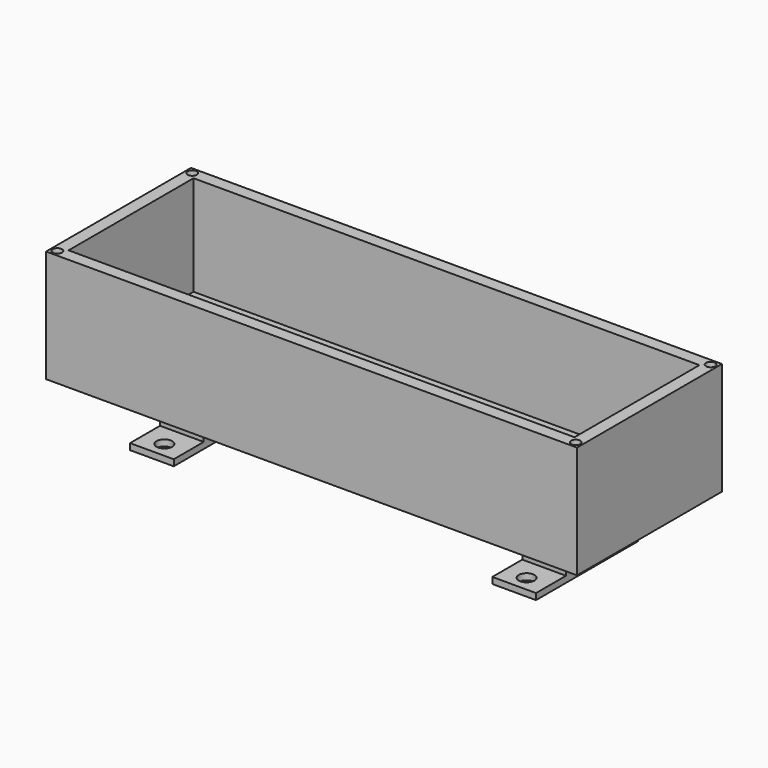
from build123d import *

# Parameters (mm, degrees)
F0_W      = 215.9
F0_H      = 73.66
F0_W_2    = 205.74
F0_H_2    = 63.5
F1_DEPTH  = 5.08
F2_DEPTH  = 40.64
F3_R      = 1.64465
F4_DEPTH  = 5.081
F5_R      = 1.905
F6_DEPTH  = 12.7
F7_W      = 17.78
F7_H      = 21.336
F8_DEPTH  = 19.05
F9_W      = 17.78
F9_H      = 15.24
F9_H_2    = 21.336
F9_H_3    = 51.816
F10_DEPTH = 2.54
F11_R     = 3.175
F12_DEPTH = 2.54


with BuildPart() as f1:
    # F0 (on Top) → F1 (new body)
    with BuildSketch(Plane.XY):
        with Locations((55.0861711621, 20.7609453964)):
            Rectangle(F0_W, F0_H)
        with Locations((55.0861711621, 20.7609453964)):
            Rectangle(F0_W_2, F0_H_2, mode=Mode.SUBTRACT)
        with Locations((55.0861711621, 20.7609453964)):
            Rectangle(F0_W_2, F0_H_2)
    extrude(amount=-F1_DEPTH)

    # F0 (on Top) → F2 (join)
    with BuildSketch(Plane.XY):
        with Locations((55.0861711621, 20.7609453964)):
            Rectangle(F0_W, F0_H)
        with Locations((55.0861711621, 20.7609453964)):
            Rectangle(F0_W_2, F0_H_2, mode=Mode.SUBTRACT)
    extrude(amount=F2_DEPTH)

    # F3 (on face) → F4 (cut, through all)
    with BuildSketch(Plane.XY):
        with Locations((150.1329711621, 29.7802567964)):
            Circle(F3_R)
        with Locations((150.1329711621, 2.8943567964)):
            Circle(F3_R)
        with Locations((100.6029711621, -2.4650432036)):
            Circle(F3_R)
        with Locations((99.6123711621, 44.7766453964)):
            Circle(F3_R)
    extrude(amount=-F4_DEPTH, mode=Mode.SUBTRACT)

    # F5 (on face) → F6 (cut)
    with BuildSketch(Plane.XY.offset(40.64)):
        with Locations((160.4961711621, -13.5290546036)):
            Circle(F5_R)
        with Locations((160.4961711621, 55.0509453964)):
            Circle(F5_R)
        with Locations((-50.3238288379, 55.0509453964)):
            Circle(F5_R)
        with Locations((-50.3238288379, -13.5290546036)):
            Circle(F5_R)
    extrude(amount=-F6_DEPTH, mode=Mode.SUBTRACT)

    # F7 (on face) → F8 (join)
    with BuildSketch(Plane(origin=(0, 0, -5.08), x_dir=(1, 0, 0), z_dir=(0, 0, -1))):
        with Locations((128.7461711621, -20.7609453964)):
            Rectangle(F7_W, F7_H)
        with Locations((-18.5738288379, -20.7609453964)):
            Rectangle(F7_W, F7_H)
    extrude(amount=F8_DEPTH)

    # F9 (on face) → F10 (join)
    with BuildSketch(Plane(origin=(0, 0, -24.13), x_dir=(1, 0, 0), z_dir=(0, 0, -1))):
        with Locations((128.7461711621, -39.0489453964)):
            Rectangle(F9_W, F9_H)
        with Locations((128.7461711621, -20.7609453964)):
            Rectangle(F9_W, F9_H_2)
        with Locations((128.7461711621, -2.4729453964)):
            Rectangle(F9_W, F9_H)
        with Locations((-18.5738288379, -20.7609453964)):
            Rectangle(F9_W, F9_H_3)
    extrude(amount=F10_DEPTH)

    # F11 (on face) → F12 (cut, through all)
    with BuildSketch(Plane(origin=(0, 0, -26.67), x_dir=(1, 0, 0), z_dir=(0, 0, -1))):
        with Locations((-18.5738288379, -1.2029453964)):
            Circle(F11_R)
        with Locations((-18.5738288379, -40.3189453964)):
            Circle(F11_R)
        with Locations((128.7461711621, -40.3189453964)):
            Circle(F11_R)
        with Locations((128.7461711621, -1.2029453964)):
            Circle(F11_R)
    extrude(amount=-F12_DEPTH, mode=Mode.SUBTRACT)


solid = f1.part
